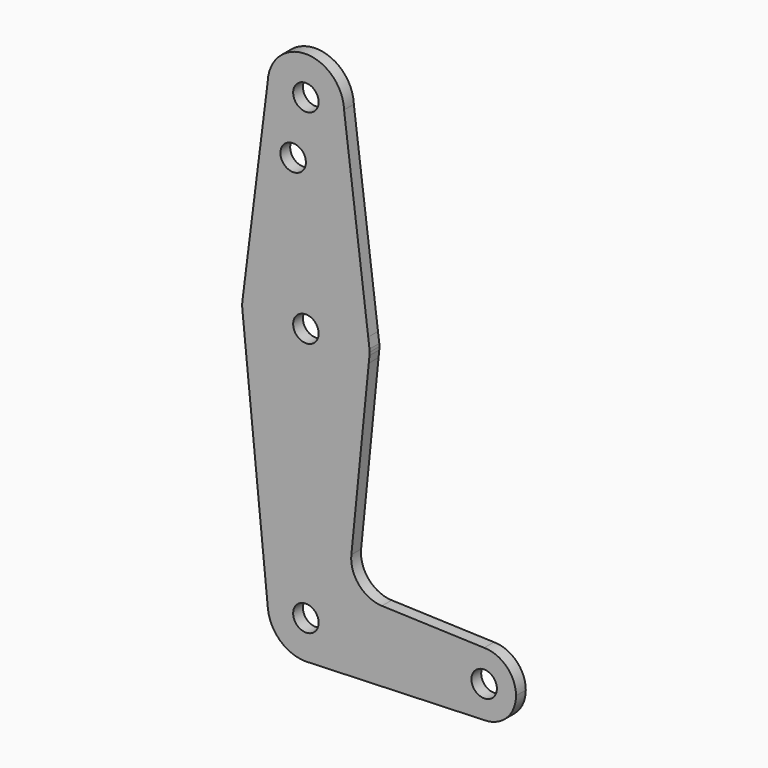
from build123d import *

# Parameters (mm, degrees)
F0_R     = 3.175
F1_DEPTH = 3.048


with BuildPart() as f1:
    # F0 (on Front) → F1 (new body)
    with BuildSketch(Plane.XZ):
        with BuildLine():
            ThreePointArc((-9.518864, 114.64184), (-0.170948, 104.776534), (9.525, 114.3))
            ThreePointArc((9.525, 114.3), (9.523466, 114.470948), (9.518864, 114.64184))
            ThreePointArc((9.518864, 114.64184), (0, 123.825), (-9.518864, 114.64184))
        make_face()
        with Locations((0, 114.3)):
            Circle(F0_R, mode=Mode.SUBTRACT)
        with BuildLine():
            ThreePointArc((9.518864, 114.64184), (9.523466, 114.470948), (9.525, 114.3))
            ThreePointArc((9.525, 114.3), (-0.170948, 104.776534), (-9.518864, 114.64184))
            Line((-9.518864, 114.64184), (-15.541264, 66.738013))
            ThreePointArc((-15.541264, 66.738013), (0, 79.375), (15.541264, 66.738013))
            Line((15.541264, 66.738013), (9.518864, 114.64184))
        make_face()
        with Locations((-3.175, 100.0252)):
            Circle(F0_R, mode=Mode.SUBTRACT)
        with BuildLine():
            Line((15.859133, 64.2096), (15.541264, 66.738013))
            ThreePointArc((15.541264, 66.738013), (0, 79.375), (-15.541264, 66.738013))
            Line((-15.541264, 66.738013), (-15.859133, 64.2096))
            ThreePointArc((-15.859133, 64.2096), (-15.875, 63.5), (-15.859133, 62.7904))
            Line((-15.859133, 62.7904), (-15.685029, 61.051429))
            ThreePointArc((-15.685029, 61.051429), (0, 47.625), (15.685029, 61.051429))
            Line((15.685029, 61.051429), (15.859133, 62.7904))
            ThreePointArc((15.859133, 62.7904), (15.871033, 63.145111), (15.875, 63.5))
            ThreePointArc((15.875, 63.5), (15.871033, 63.854889), (15.859133, 64.2096))
        make_face()
        with Locations((0, 63.5)):
            Circle(F0_R, mode=Mode.SUBTRACT)
        with BuildLine():
            ThreePointArc((15.685029, 61.051429), (0, 47.625), (-15.685029, 61.051429))
            Line((-15.685029, 61.051429), (-9.477617, -0.94889))
            ThreePointArc((-9.477617, -0.94889), (-0.475036, 9.513147), (9.525, 0))
            ThreePointArc((9.525, 0), (6.97129, -6.490511), (0.67949, -9.500732))
            Line((0.67949, -9.500732), (44.45, -7.9375))
            ThreePointArc((44.45, -7.9375), (36.5125, 0), (44.45, 7.9375))
            Line((44.45, 7.9375), (18.960108, 8.847853))
            ThreePointArc((18.960108, 8.847853), (13.254583, 11.564776), (11.333212, 17.584995))
            Line((11.333212, 17.584995), (15.685029, 61.051429))
        make_face()
        with BuildLine():
            ThreePointArc((9.525, 0), (-0.475036, 9.513147), (-9.477617, -0.94889))
            ThreePointArc((-9.477617, -0.94889), (-6.39091, -7.062712), (0, -9.525))
            Line((0, -9.525), (0.67949, -9.500732))
            ThreePointArc((0.67949, -9.500732), (6.97129, -6.490511), (9.525, 0))
        make_face()
        Circle(F0_R, mode=Mode.SUBTRACT)
        with BuildLine():
            ThreePointArc((52.3875, 0), (50.06266, 5.61266), (44.45, 7.9375))
            ThreePointArc((44.45, 7.9375), (36.5125, 0), (44.45, -7.9375))
            ThreePointArc((44.45, -7.9375), (50.06266, -5.61266), (52.3875, 0))
        make_face()
        with Locations((44.45, 0)):
            Circle(F0_R, mode=Mode.SUBTRACT)
    extrude(amount=F1_DEPTH)


solid = f1.part
